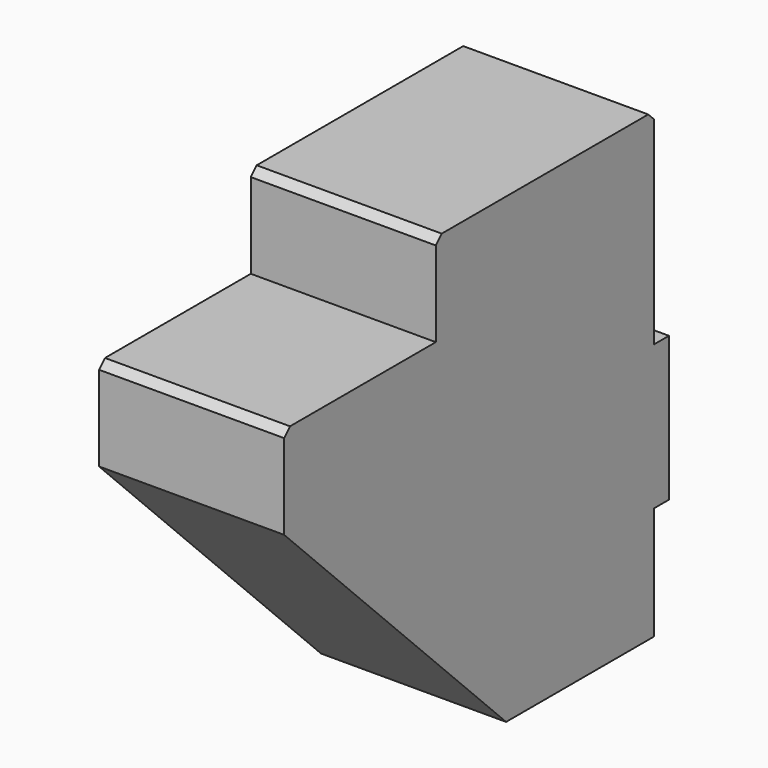
from build123d import *

# Parameters (mm, degrees)
BOX012_W        = 10
BOX012_H        = 2
BOX012_DEPTH    = 7.8
BOX013_W        = 10
BOX013_H        = 25
BOX013_DEPTH    = 25
BOX011_W        = 10
BOX011_H        = 25
BOX011_DEPTH    = 25
CHAMFER_SIZE    = 15
CHAMFER001_SIZE = 0.4


with BuildPart() as cube011:
    # Box012 → Box012 (new body)
    with BuildSketch(Plane(origin=(0, 24, 11.1), x_dir=(1, 0, 0), z_dir=(0, 0, 1))):
        with Locations((5, 1)):
            Rectangle(BOX012_W, BOX012_H)
    extrude(amount=BOX012_DEPTH)


with BuildPart() as cube012:
    # Box013 → Box013 (new body)
    with BuildSketch(Plane(origin=(0, -14.75, 25), x_dir=(1, 0, 0), z_dir=(0, 0, 1))):
        with Locations((5, 12.5)):
            Rectangle(BOX013_W, BOX013_H)
    extrude(amount=BOX013_DEPTH)


with BuildPart() as support_profile:
    # Box011 → Box011 (new body)
    with BuildSketch(Plane.XY.offset(5)):
        with Locations((5, 12.5)):
            Rectangle(BOX011_W, BOX011_H)
    extrude(amount=BOX011_DEPTH)

    # Cut001: cut Cube012
    add(cube012.part, mode=Mode.SUBTRACT)

    # Chamfer
    chamfer_edges = [support_profile.edges().sort_by_distance(p)[0] for p in [
        (5, 0, 5),
    ]]
    chamfer(chamfer_edges, length=CHAMFER_SIZE)

    # Chamfer001
    chamfer001_edges = [support_profile.edges().sort_by_distance(p)[0] for p in [
        (5, 0, 25),
        (5, 10.25, 30),
        (5, 25, 30),
    ]]
    chamfer(chamfer001_edges, length=CHAMFER001_SIZE)

    # Fusion001002: union Cube011
    add(cube011.part)


solid = support_profile.part
